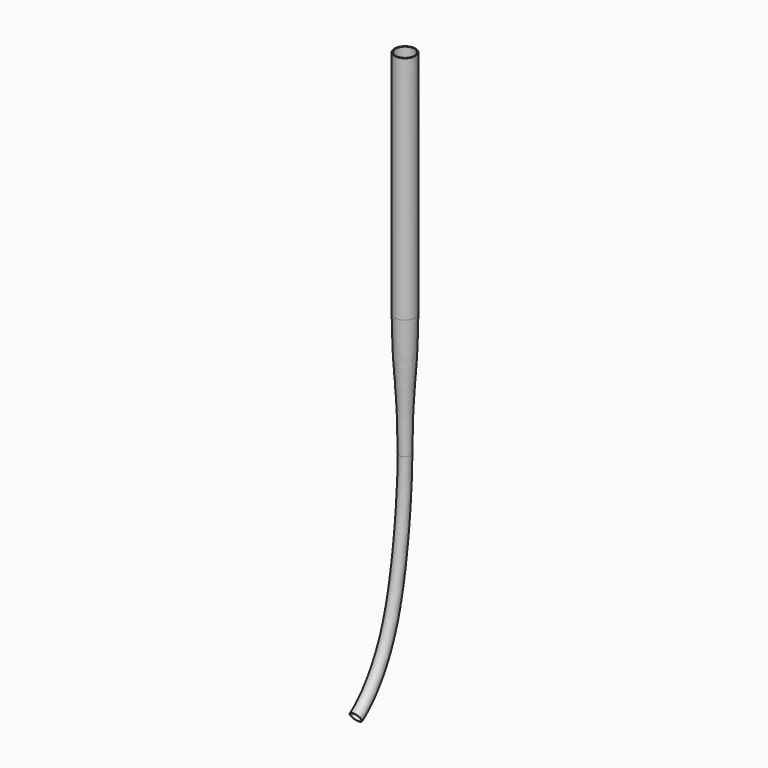
from build123d import *

# Parameters (mm, degrees)
F0_W   = 1.3
F0_H   = 280
F2_R   = 7
F2_R_2 = 6.1


with BuildPart() as f1:
    # F0 (on Right) → F1 (revolve)
    with BuildSketch(Plane.YZ):
        with Locations((12.05, 289)):
            Rectangle(F0_W, F0_H)
        with BuildLine():
            Line((12.7, 149), (11.4, 149))
            add(Edge.make_bspline(
                [(11.4, 149), (11.4, 92.4578085542), (6.1, 66.6295662522), (6.1, 0)],
                knots=[0, 0, 0, 0, 149.0942319474, 149.0942319474, 149.0942319474, 149.0942319474], degree=3))
            Line((6.1, 0), (7, 0))
            add(Edge.make_bspline(
                [(12.7, 149), (12.7, 92.2850742936), (7, 66.6657984257), (7, 0)],
                knots=[0, 0, 0, 0, 149.108986986, 149.108986986, 149.108986986, 149.108986986], degree=3))
        make_face()
    revolve(axis=Axis((0, 0, 214.5), (0, 0, 1)))

    # F4: sweep along a path in F3
    with BuildLine(Plane.YZ) as f4_path:
        add(Plane.YZ * Edge.make_bspline(
            [(0, 0), (0, -26.1989749136), (-7.6955910716, -183.7199925036), (-59.8292611539, -242.4782961607), (-74.5888213685, -251.9644491406)],
            knots=[0, 0, 0, 0, 0.5831318208, 1, 1, 1, 1], degree=3))
    # F2 (on Top) → F4 (sweep)
    with BuildSketch(Plane.XY):
        Circle(F2_R)
        Circle(F2_R_2, mode=Mode.SUBTRACT)
    sweep(path=f4_path.line)


solid = f1.part
